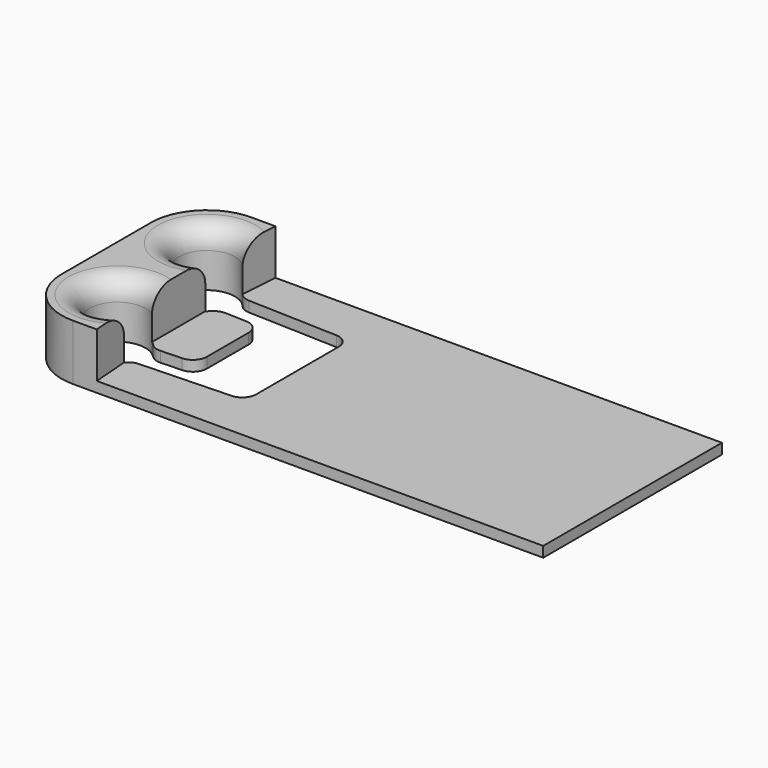
from build123d import *

# Parameters (mm, degrees)
F2_DEPTH = 1.5
F4_DEPTH = 8
F5_R     = 3
F6_R     = 2
F7_R     = 8


with BuildPart() as f2:
    # F1 (on Top) → F2 (new body)
    with BuildSketch(Plane.XY):
        Polygon((-10.85897, 16), (-10.85897, 0), (-10.85897, -16), (64.528769, -16), (64.528769, 0), (64.528769, 16), align=None)
        with BuildLine():
            ThreePointArc((0.532496, 5.87916), (-6.856485, 8.140969), (0.673464, 9.876675))
            Line((0.673464, 9.876675), (16.528769, 9.317552))
            Line((16.528769, 9.317552), (16.528769, 0))
            Line((16.528769, 0), (16.528769, -9.317552))
            Line((16.528769, -9.317552), (0.673464, -9.876675))
            ThreePointArc((0.673464, -9.876675), (-6.856485, -8.140969), (0.532496, -5.87916))
            Line((0.532496, -5.87916), (6.528769, -5.667707))
            Line((6.528769, -5.667707), (6.528769, 0))
            Line((6.528769, 0), (6.528769, 5.667707))
            Line((6.528769, 5.667707), (0.532496, 5.87916))
        make_face(mode=Mode.SUBTRACT)
    extrude(amount=F2_DEPTH)

    # F3 (on Top) → F4 (join)
    with BuildSketch(Plane.XY):
        with BuildLine():
            Line((0.569651, 16), (-10.85897, 16))
            Line((-10.85897, 16), (-10.85897, -16))
            Line((-10.85897, -16), (0.569651, -16))
            Line((0.569651, -16), (0.160266, -10.623778))
            ThreePointArc((0.160266, -10.623778), (-6.833768, -8.448302), (-0.5, -4.769634))
            Line((-0.5, -4.769634), (-0.5, 4.769634))
            ThreePointArc((-0.5, 4.769634), (-6.833768, 8.448302), (0.160266, 10.623778))
            Line((0.160266, 10.623778), (0.569651, 16))
        make_face()
    extrude(amount=F4_DEPTH)

    # F5
    f5_edges = [f2.edges().sort_by_distance(p)[0] for p in [
        (-6.833768, 8.448302, 8),
        (-6.833768, -8.448302, 8),
    ]]
    fillet(f5_edges, radius=F5_R)

    # F6
    f6_edges = [f2.edges().sort_by_distance(p)[0] for p in [
        (0.532496, 5.87916, 0.75),
        (0.532496, -5.87916, 0.75),
        (16.528769, 9.317552, 0.75),
        (16.528769, -9.317552, 0.75),
        (0.673464, -9.876675, 0.75),
        (0.673464, 9.876675, 0.75),
        (6.528769, 5.667707, 0.75),
        (6.528769, -5.667707, 0.75),
    ]]
    fillet(f6_edges, radius=F6_R)

    # F7
    f7_edges = [f2.edges().sort_by_distance(p)[0] for p in [
        (-10.85897, 16, 4),
        (-10.85897, -16, 4),
    ]]
    fillet(f7_edges, radius=F7_R)


solid = f2.part
